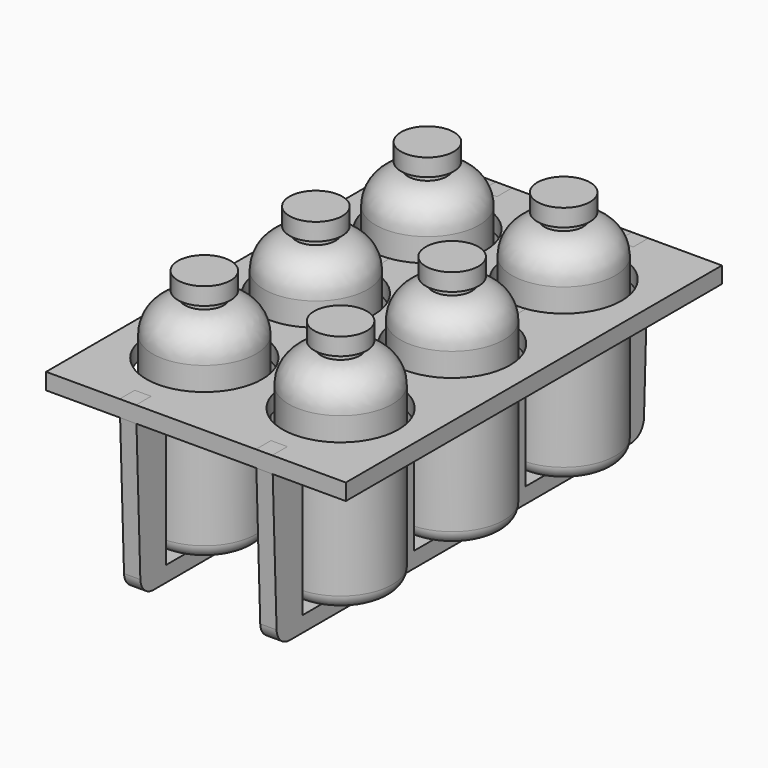
from build123d import *

# Parameters (mm, degrees)
F8_R      = 10
F8_2_R    = 10
F8_3_R    = 10
F11_R     = 42.5
F12_DEPTH = 12
F14_DEPTH = 6


with BuildPart() as f5:
    # F4 (on offset) → F5 (revolve)
    with BuildSketch(Plane.YZ.offset(-50)):
        with BuildLine():
            Line((0, 186.3456023064), (0, 18.3456023064))
            Line((0, 18.3456023064), (38, 18.3456023064))
            Line((38, 18.3456023064), (38, 144.8865103859))
            ThreePointArc((38, 144.8865103859), (31.0525728497, 161.6590832356), (14.28, 168.6065103859))
            Line((14.28, 168.6065103859), (14.28, 173.6065103859))
            Line((14.28, 173.6065103859), (19.3887874484, 173.6065103859))
            Line((19.3887874484, 173.6065103859), (19.3887874484, 186.3456023064))
            Line((19.3887874484, 186.3456023064), (0, 186.3456023064))
        make_face()
    revolve(axis=Axis((-50, 0, 93.1728011532), (0, 0, 1)))

    # F8#2
    f8_2_edges = [f5.edges().sort_by_distance(p)[0] for p in [
        (-50, -38, 18.345602),
    ]]
    fillet(f8_2_edges, radius=F8_2_R)


with BuildPart() as f6:
    # F4 (on offset) → F6 (revolve)
    with BuildSketch(Plane.YZ.offset(-50)):
        with BuildLine():
            Line((-140.3448283672, 144.8865103859), (-140.3448283672, 18.3456023064))
            Line((-140.3448283672, 18.3456023064), (-102.3448283672, 18.3456023064))
            Line((-102.3448283672, 18.3456023064), (-102.3448283672, 144.8865103859))
            Line((-102.3448283672, 144.8865103859), (-102.3448283672, 186.3456023064))
            Line((-102.3448283672, 186.3456023064), (-121.7336158156, 186.3456023064))
            Line((-121.7336158156, 186.3456023064), (-121.7336158156, 173.6065103859))
            Line((-121.7336158156, 173.6065103859), (-116.6248283672, 173.6065103859))
            Line((-116.6248283672, 173.6065103859), (-116.6248283672, 168.6065103859))
            ThreePointArc((-116.6248283672, 168.6065103859), (-133.397401217, 161.6590832356), (-140.3448283672, 144.8865103859))
        make_face()
    revolve(axis=Axis((-50, -102.3448283672, 81.6160563462), (0, 0, -1)))

    # F8#3
    f8_3_edges = [f6.edges().sort_by_distance(p)[0] for p in [
        (-50, -64.344828, 18.345602),
    ]]
    fillet(f8_3_edges, radius=F8_3_R)


with BuildPart() as f7:
    # F4 (on offset) → F7 (revolve)
    with BuildSketch(Plane.YZ.offset(-50)):
        with BuildLine():
            Line((102.3448283672, 18.3456023064), (140.3448283672, 18.3456023064))
            Line((140.3448283672, 18.3456023064), (140.3448283672, 144.8865103859))
            ThreePointArc((140.3448283672, 144.8865103859), (133.397401217, 161.6590832356), (116.6248283672, 168.6065103859))
            Line((116.6248283672, 168.6065103859), (116.6248283672, 173.6065103859))
            Line((116.6248283672, 173.6065103859), (121.7336158156, 173.6065103859))
            Line((121.7336158156, 173.6065103859), (121.7336158156, 186.3456023064))
            Line((121.7336158156, 186.3456023064), (102.3448283672, 186.3456023064))
            Line((102.3448283672, 186.3456023064), (102.3448283672, 144.8865103859))
            Line((102.3448283672, 144.8865103859), (102.3448283672, 18.3456023064))
        make_face()
    revolve(axis=Axis((-50, 102.3448283672, 81.6160563462), (0, 0, -1)))

    # F8
    f8_edges = [f7.edges().sort_by_distance(p)[0] for p in [
        (-50, 64.344828, 18.345602),
    ]]
    fillet(f8_edges, radius=F8_R)


with BuildPart() as f9_1:
    # F9: instance of F7
    add(f7.part.mirror(Plane.YZ))


with BuildPart() as f9_2:
    # F9: instance of F5
    add(f5.part.mirror(Plane.YZ))


with BuildPart() as f9_3:
    # F9: instance of F6
    add(f6.part.mirror(Plane.YZ))


with BuildPart() as f12:
    # F11 (on offset) → F12 (new body)
    with BuildSketch(Plane.XY.offset(130)):
        Polygon((-110, -172.5397000339), (0, -172.5397000339), (110, -172.5397000339), (110, 0), (110, 172.5397000339), (0, 172.5397000339), (-110, 172.5397000339), (-110, 0), align=None)
        with Locations((-50, -102.3448283672)):
            Circle(F11_R, mode=Mode.SUBTRACT)
        with Locations((-50, 0)):
            Circle(F11_R, mode=Mode.SUBTRACT)
        with Locations((50, -102.3448283672)):
            Circle(F11_R, mode=Mode.SUBTRACT)
        with Locations((50, 0)):
            Circle(F11_R, mode=Mode.SUBTRACT)
        with Locations((-50, 102.3448283672)):
            Circle(F11_R, mode=Mode.SUBTRACT)
        with Locations((50, 102.3448283672)):
            Circle(F11_R, mode=Mode.SUBTRACT)
    extrude(amount=-F12_DEPTH)


with BuildPart() as f14:
    # F13 (on offset) → F14 (new body, symmetric)
    with BuildSketch(Plane.YZ.offset(-50)):
        with BuildLine():
            Line((168.5422574275, 15.5980412994), (172.5372618567, 130))
            Line((172.5372618567, 130), (158.691045112, 130))
            Line((158.691045112, 130), (158.691045112, 118))
            Line((158.691045112, 118), (144.8448283672, 118))
            Line((144.8448283672, 118), (144.8448283672, 15.4271644799))
            Line((144.8448283672, 15.4271644799), (108.3448283672, 15.4271644799))
            Line((108.3448283672, 15.4271644799), (108.3448283672, 9.71358224))
            Line((108.3448283672, 9.71358224), (102.3448283672, 9.71358224))
            Line((102.3448283672, 9.71358224), (102.3448283672, 4))
            Line((102.3448283672, 4), (156.5321340815, 4))
            ThreePointArc((156.5321340815, 4), (164.8801521811, 7.372818246), (168.5422574275, 15.5980412994))
        make_face()
        with BuildLine():
            Line((0, 4), (102.3448283672, 4))
            Line((102.3448283672, 4), (102.3448283672, 9.71358224))
            Line((102.3448283672, 9.71358224), (96.3448283672, 9.71358224))
            Line((96.3448283672, 9.71358224), (96.3448283672, 15.4271644799))
            Line((96.3448283672, 15.4271644799), (59.8448283672, 15.4271644799))
            Line((59.8448283672, 15.4271644799), (59.8448283672, 130))
            Line((59.8448283672, 130), (51.1724141836, 130))
            Line((51.1724141836, 130), (51.1724141836, 118))
            Line((51.1724141836, 118), (42.5, 118))
            Line((42.5, 118), (42.5, 15.4271644799))
            Line((42.5, 15.4271644799), (6, 15.4271644799))
            Line((6, 15.4271644799), (6, 9.71358224))
            Line((6, 9.71358224), (0, 9.71358224))
            Line((0, 9.71358224), (-6, 9.71358224))
            Line((-6, 9.71358224), (-6, 15.4271644799))
            Line((-6, 15.4271644799), (-42.5, 15.4271644799))
            Line((-42.5, 15.4271644799), (-42.5, 118))
            Line((-42.5, 118), (-51.1724141836, 118))
            Line((-51.1724141836, 118), (-51.1724141836, 130))
            Line((-51.1724141836, 130), (-59.8448283672, 130))
            Line((-59.8448283672, 130), (-59.8448283672, 15.4271644799))
            Line((-59.8448283672, 15.4271644799), (-96.3448283672, 15.4271644799))
            Line((-96.3448283672, 15.4271644799), (-96.3448283672, 9.71358224))
            Line((-96.3448283672, 9.71358224), (-102.3448283672, 9.71358224))
            Line((-102.3448283672, 9.71358224), (-108.3448283672, 9.71358224))
            Line((-108.3448283672, 9.71358224), (-108.3448283672, 15.4271644799))
            Line((-108.3448283672, 15.4271644799), (-144.8448283672, 15.4271644799))
            Line((-144.8448283672, 15.4271644799), (-144.8448283672, 118))
            Line((-144.8448283672, 118), (-158.691045112, 118))
            Line((-158.691045112, 118), (-158.691045112, 130))
            Line((-158.691045112, 130), (-172.5372618567, 130))
            Line((-172.5372618567, 130), (-168.5422574275, 15.5980412994))
            ThreePointArc((-168.5422574275, 15.5980412994), (-164.8801521811, 7.372818246), (-156.5321340815, 4))
            Line((-156.5321340815, 4), (0, 4))
        make_face()
    extrude(amount=F14_DEPTH, both=True)


with BuildPart() as f15_1:
    # F15: instance of F14
    add(f14.part.mirror(Plane.YZ))


solid = Compound([f5.part, f6.part, f7.part, f9_1.part, f9_2.part, f9_3.part, f12.part, f14.part, f15_1.part])
